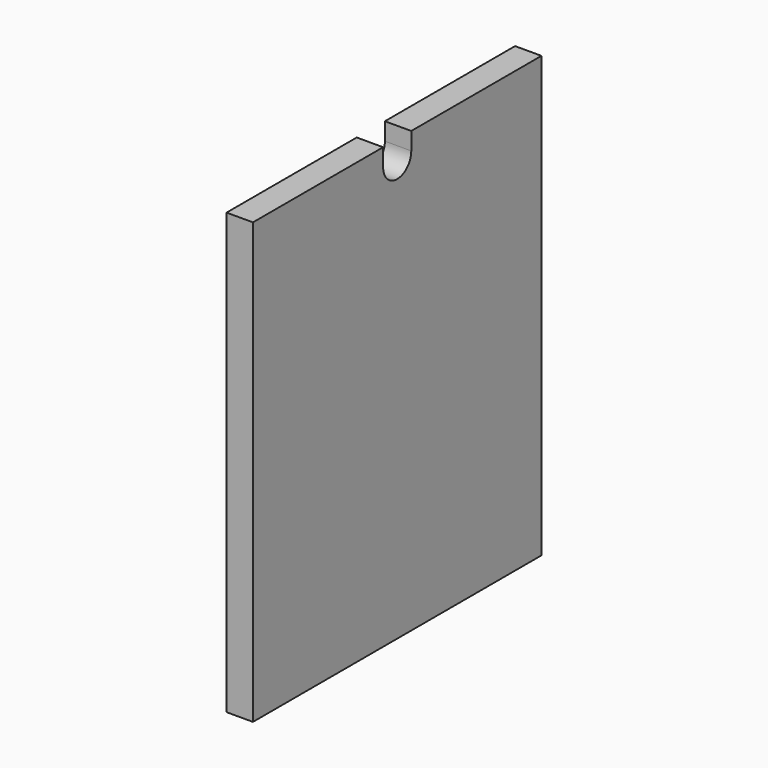
from build123d import *

# Parameters (mm, degrees)
F1_DEPTH = 19.05


with BuildPart() as f1:
    # F0 (on Right) → F1 (new body)
    with BuildSketch(Plane.YZ):
        with BuildLine():
            Line((130.175, -158.75), (130.175, 158.75))
            Line((130.175, 158.75), (12.7, 158.75))
            Line((12.7, 158.75), (12.7, 146.05))
            ThreePointArc((12.7, 146.05), (0, 133.35), (-12.7, 146.05))
            Line((-12.7, 146.05), (-12.7, 158.75))
            Line((-12.7, 158.75), (-130.175, 158.75))
            Line((-130.175, 158.75), (-130.175, -158.75))
            Line((-130.175, -158.75), (130.175, -158.75))
        make_face()
    extrude(amount=F1_DEPTH)


solid = f1.part
